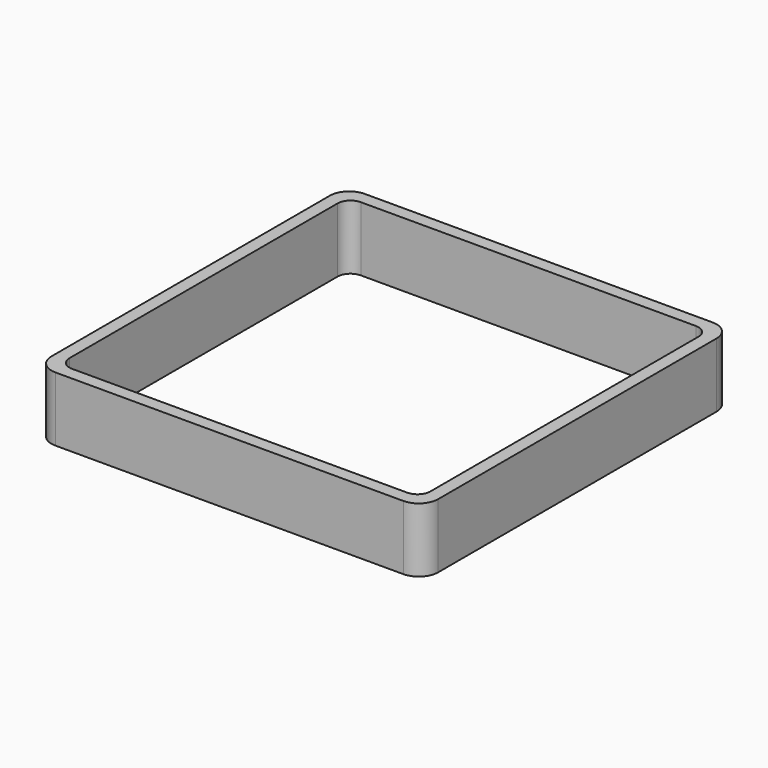
from build123d import *

# Parameters (mm, degrees)
EXTRUDE_DEPTH = 50


with BuildPart() as part:
    # Sketch → Extrude (new body)
    with BuildSketch(Plane.XY):
        with BuildLine():
            Line((-135, 150), (135, 150))
            ThreePointArc((150, 135), (145.606602, 145.606602), (135, 150))
            Line((150, 135), (150, -135))
            ThreePointArc((135, -150), (145.606602, -145.606602), (150, -135))
            Line((135, -150), (-135, -150))
            ThreePointArc((-150, -135), (-145.606602, -145.606602), (-135, -150))
            Line((-150, -135), (-150, 135))
            ThreePointArc((-135, 150), (-145.606602, 145.606602), (-150, 135))
        make_face()
        with BuildLine():
            Line((-130, 140), (130, 140))
            ThreePointArc((140, 130), (137.071068, 137.071068), (130, 140))
            Line((140, 130), (140, -130))
            ThreePointArc((130, -140), (137.071068, -137.071068), (140, -130))
            Line((130, -140), (-130, -140))
            ThreePointArc((-140, -130), (-137.071068, -137.071068), (-130, -140))
            Line((-140, -130), (-140, 130))
            ThreePointArc((-130, 140), (-137.071068, 137.071068), (-140, 130))
        make_face(mode=Mode.SUBTRACT)
    extrude(amount=EXTRUDE_DEPTH)


solid = part.part
